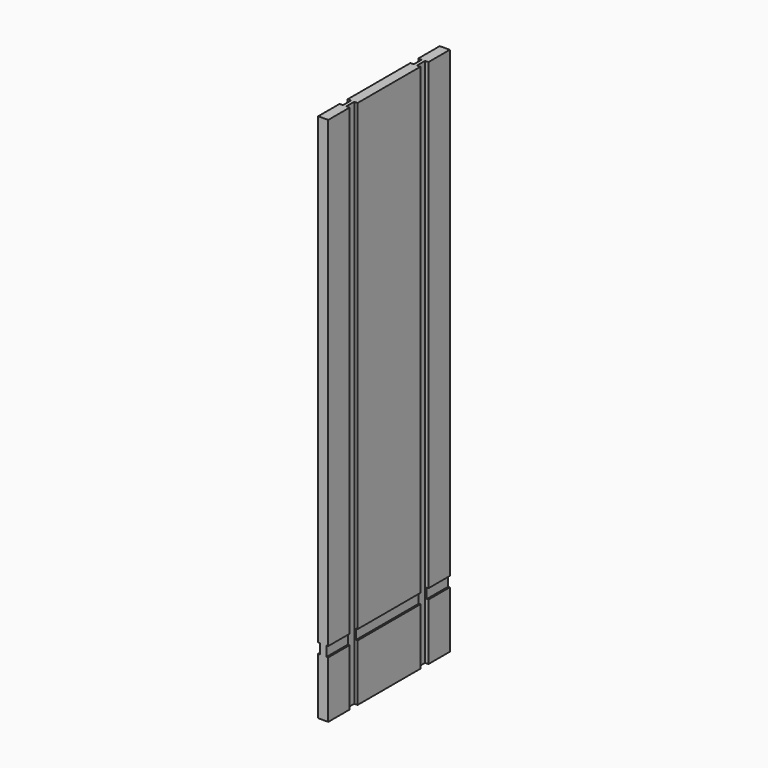
from build123d import *

# Parameters (mm, degrees)
F0_W     = 288.925
F0_H     = 1008.0625
F1_DEPTH = 19.05
F2_W     = 19.05
F2_H     = 1008.0625
F3_DEPTH = 6.35
F5_DEPTH = 6.35
F6_W     = 3.175
F6_H     = 19.05
F7_DEPTH = 288.926


with BuildPart() as f1:
    # F0 (on Right) → F1 (new body)
    with BuildSketch(Plane.YZ):
        Rectangle(F0_W, F0_H)
    extrude(amount=F1_DEPTH)

    # F2 (on face) → F3 (cut)
    with BuildSketch(Plane.YZ.offset(19.05)):
        with Locations((-84.1375, 0)):
            Rectangle(F2_W, F2_H)
        with Locations((84.1375, 0)):
            Rectangle(F2_W, F2_H)
    extrude(amount=-F3_DEPTH, mode=Mode.SUBTRACT)

    # F4 (on face) → F5 (cut)
    with BuildSketch(Plane(origin=(0, 0, 0), x_dir=(0, -1, 0), z_dir=(-1, 0, 0))):
        Polygon((93.6625, -377.03125), (93.6625, 504.03125), (74.6125, 504.03125), (74.6125, -377.03125), (74.6125, -504.03125), (93.6625, -504.03125), align=None)
        Polygon((-74.6125, 504.03125), (-93.6625, 504.03125), (-93.6625, -377.03125), (-93.6625, -504.03125), (-74.6125, -504.03125), (-74.6125, -377.03125), align=None)
    extrude(amount=-F5_DEPTH, mode=Mode.SUBTRACT)

    # F6 (on face) → F7 (cut, through all)
    with BuildSketch(Plane.XZ.offset(144.4625)):
        with Locations((1.5875, -386.55625)):
            Rectangle(F6_W, F6_H)
        with Locations((17.4625, -386.55625)):
            Rectangle(F6_W, F6_H)
    extrude(amount=-F7_DEPTH, mode=Mode.SUBTRACT)


solid = f1.part
